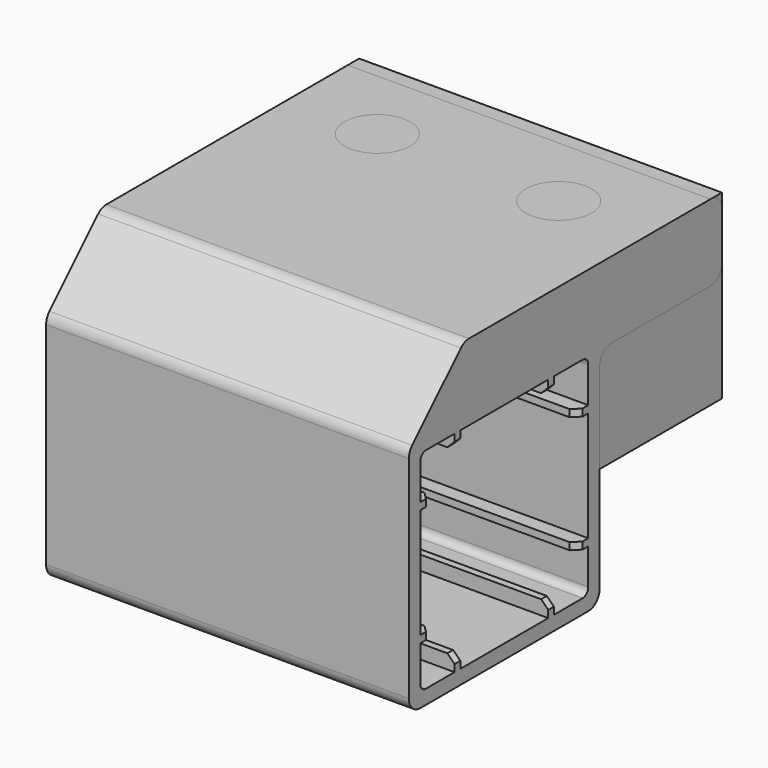
from build123d import *

# Parameters (mm, degrees)
BOX011_W          = 50.8
BOX011_H          = 23.4
BOX011_DEPTH      = 25.4
BOX005_W          = 50.8
BOX005_H          = 4
BOX005_DEPTH      = 1
BOX008_W          = 50.8
BOX008_H          = 1
BOX008_DEPTH      = 4
BOX009_W          = 50.8
BOX009_H          = 1
BOX009_DEPTH      = 4
BOX003_W          = 50.8
BOX003_H          = 4
BOX003_DEPTH      = 1
BOX002_W          = 50.8
BOX002_H          = 4
BOX002_DEPTH      = 1
BOX006_W          = 50.8
BOX006_H          = 1
BOX006_DEPTH      = 4
BOX007_W          = 50.8
BOX007_H          = 1
BOX007_DEPTH      = 4
BOX004_W          = 50.8
BOX004_H          = 4
BOX004_DEPTH      = 1
CYLINDER001_R     = 4.1
CYLINDER001_DEPTH = 14
CYLINDER_R        = 4.1
CYLINDER_DEPTH    = 14
BOX010_W          = 50.8
BOX010_H          = 54.8
BOX010_DEPTH      = 10.7
BOX_W             = 52
BOX_H             = 29.4
BOX_DEPTH         = 29.4
FILLET001_R       = 1
BOX001_W          = 50.8
BOX001_H          = 33.4
BOX001_DEPTH      = 33.4
FILLET_R          = 2
FILLET002_R       = 2
CHAMFER_SIZE      = 9.7
FILLET003_R       = 2
FILLET004_R       = 2
FILLET005_R       = 2
CHAMFER001_SIZE   = 0.5
CHAMFER002_SIZE   = 1


with BuildPart() as cube011:
    # Box011 → Box011 (new body)
    with BuildSketch(Plane(origin=(0, 31.4, 16.7), x_dir=(1, 0, 0), z_dir=(0, 0, 1))):
        with Locations((25.4, 11.7)):
            Rectangle(BOX011_W, BOX011_H)
    extrude(amount=BOX011_DEPTH)


with BuildPart() as cube005:
    # Box005 → Box005 (new body)
    with BuildSketch(Plane(origin=(0, 29.4, 24.4), x_dir=(1, 0, 0), z_dir=(0, 0, 1))):
        with Locations((25.4, 2)):
            Rectangle(BOX005_W, BOX005_H)
    extrude(amount=BOX005_DEPTH)


with BuildPart() as cube008:
    # Box008 → Box008 (new body)
    with BuildSketch(Plane(origin=(0, 24.4, 29.4), x_dir=(1, 0, 0), z_dir=(0, 0, 1))):
        with Locations((25.4, 0.5)):
            Rectangle(BOX008_W, BOX008_H)
    extrude(amount=BOX008_DEPTH)


with BuildPart() as cube009:
    # Box009 → Box009 (new body)
    with BuildSketch(Plane(origin=(0, 8, 29.4), x_dir=(1, 0, 0), z_dir=(0, 0, 1))):
        with Locations((25.4, 0.5)):
            Rectangle(BOX009_W, BOX009_H)
    extrude(amount=BOX009_DEPTH)


with BuildPart() as cube003:
    # Box003 → Box003 (new body)
    with BuildSketch(Plane.XY.offset(24.4)):
        with Locations((25.4, 2)):
            Rectangle(BOX003_W, BOX003_H)
    extrude(amount=BOX003_DEPTH)


with BuildPart() as cube002:
    # Box002 → Box002 (new body)
    with BuildSketch(Plane.XY.offset(8)):
        with Locations((25.4, 2)):
            Rectangle(BOX002_W, BOX002_H)
    extrude(amount=BOX002_DEPTH)


with BuildPart() as cube006:
    # Box006 → Box006 (new body)
    with BuildSketch(Plane(origin=(0, 8, 0), x_dir=(1, 0, 0), z_dir=(0, 0, 1))):
        with Locations((25.4, 0.5)):
            Rectangle(BOX006_W, BOX006_H)
    extrude(amount=BOX006_DEPTH)


with BuildPart() as cube007:
    # Box007 → Box007 (new body)
    with BuildSketch(Plane(origin=(0, 24.4, 0), x_dir=(1, 0, 0), z_dir=(0, 0, 1))):
        with Locations((25.4, 0.5)):
            Rectangle(BOX007_W, BOX007_H)
    extrude(amount=BOX007_DEPTH)


with BuildPart() as cube004:
    # Box004 → Box004 (new body)
    with BuildSketch(Plane(origin=(0, 29.4, 8), x_dir=(1, 0, 0), z_dir=(0, 0, 1))):
        with Locations((25.4, 2)):
            Rectangle(BOX004_W, BOX004_H)
    extrude(amount=BOX004_DEPTH)


with BuildPart() as cylinder001:
    # Cylinder001 → Cylinder001 (new body)
    with BuildSketch(Plane(origin=(38.1, 42.1, 30), x_dir=(1, 0, 0), z_dir=(0, 0, 1))):
        Circle(CYLINDER001_R)
    extrude(amount=CYLINDER001_DEPTH)


with BuildPart() as cylinder:
    # Cylinder → Cylinder (new body)
    with BuildSketch(Plane(origin=(12.7, 42.1, 30), x_dir=(1, 0, 0), z_dir=(0, 0, 1))):
        Circle(CYLINDER_R)
    extrude(amount=CYLINDER_DEPTH)


with BuildPart() as cube010:
    # Box010 → Box010 (new body)
    with BuildSketch(Plane.XY.offset(31.4)):
        with Locations((25.4, 27.4)):
            Rectangle(BOX010_W, BOX010_H)
    extrude(amount=BOX010_DEPTH)


with BuildPart() as fillet001:
    # Box → Box (new body)
    with BuildSketch(Plane(origin=(-1, 2, 2), x_dir=(1, 0, 0), z_dir=(0, 0, 1))):
        with Locations((26, 14.7)):
            Rectangle(BOX_W, BOX_H)
    extrude(amount=BOX_DEPTH)

    # Fillet001
    fillet001_edges = [fillet001.edges().sort_by_distance(p)[0] for p in [
        (25, 2, 31.4),
        (25, 2, 2),
        (25, 31.4, 31.4),
        (25, 31.4, 2),
    ]]
    fillet(fillet001_edges, radius=FILLET001_R)


with BuildPart() as chamfer002:
    # Box001 → Box001 (new body)
    with BuildSketch(Plane.XY):
        with Locations((25.4, 16.7)):
            Rectangle(BOX001_W, BOX001_H)
    extrude(amount=BOX001_DEPTH)

    # Fillet
    fillet_edges = [chamfer002.edges().sort_by_distance(p)[0] for p in [
        (25.4, 33.4, 0),
        (25.4, 0, 0),
        (25.4, 0, 33.4),
        (25.4, 33.4, 33.4),
    ]]
    fillet(fillet_edges, radius=FILLET_R)

    # Cut: cut Fillet001
    add(fillet001.part, mode=Mode.SUBTRACT)

    # Fusion: union Cube010
    add(cube010.part)

    # Fillet002
    fillet002_edges = [chamfer002.edges().sort_by_distance(p)[0] for p in [
        (25.4, 33.4, 31.4),
    ]]
    fillet(fillet002_edges, radius=FILLET002_R)

    # Chamfer
    chamfer_edges = [chamfer002.edges().sort_by_distance(p)[0] for p in [
        (25.4, 0, 42.1),
    ]]
    chamfer(chamfer_edges, length=CHAMFER_SIZE)

    # Fillet003
    fillet003_edges = [chamfer002.edges().sort_by_distance(p)[0] for p in [
        (25.4, 9.7, 42.1),
    ]]
    fillet(fillet003_edges, radius=FILLET003_R)

    # Fillet004
    fillet004_edges = [chamfer002.edges().sort_by_distance(p)[0] for p in [
        (25.4, 0, 32.4),
    ]]
    fillet(fillet004_edges, radius=FILLET004_R)

    # Fillet005
    fillet005_edges = [chamfer002.edges().sort_by_distance(p)[0] for p in [
        (25.4, 54.8, 42.1),
        (25.4, 54.8, 31.4),
    ]]
    fillet(fillet005_edges, radius=FILLET005_R)

    # Cut001: cut Cylinder
    add(cylinder.part, mode=Mode.SUBTRACT)

    # Cut002: cut Cylinder001
    add(cylinder001.part, mode=Mode.SUBTRACT)

    # Fusion001: union Cube005, Cube008, Cube009, Cube003, Cube002, Cube006, Cube007, Cube004
    add(cube005.part)
    add(cube008.part)
    add(cube009.part)
    add(cube003.part)
    add(cube002.part)
    add(cube006.part)
    add(cube007.part)
    add(cube004.part)

    # Chamfer001
    chamfer001_edges = [chamfer002.edges().sort_by_distance(p)[0] for p in [
        (34, 42.1, 42.1),
        (8.6, 42.1, 42.1),
        (34, 42.1, 31.4),
        (8.6, 42.1, 31.4),
    ]]
    chamfer(chamfer001_edges, length=CHAMFER001_SIZE)

    # Chamfer002
    chamfer002_edges = [chamfer002.edges().sort_by_distance(p)[0] for p in [
        (0, 8.5, 29.4),
        (0, 24.9, 29.4),
        (50.8, 8.5, 29.4),
        (50.8, 24.9, 29.4),
        (0, 29.4, 24.9),
        (50.8, 29.4, 24.9),
        (0, 4, 24.9),
        (50.8, 4, 24.9),
        (0, 29.4, 8.5),
        (50.8, 29.4, 8.5),
        (0, 4, 8.5),
        (50.8, 4, 8.5),
        (0, 24.9, 4),
        (50.8, 24.9, 4),
        (0, 8.5, 4),
        (50.8, 8.5, 4),
    ]]
    chamfer(chamfer002_edges, length=CHAMFER002_SIZE)


solid = Compound([cube011.part, chamfer002.part])
